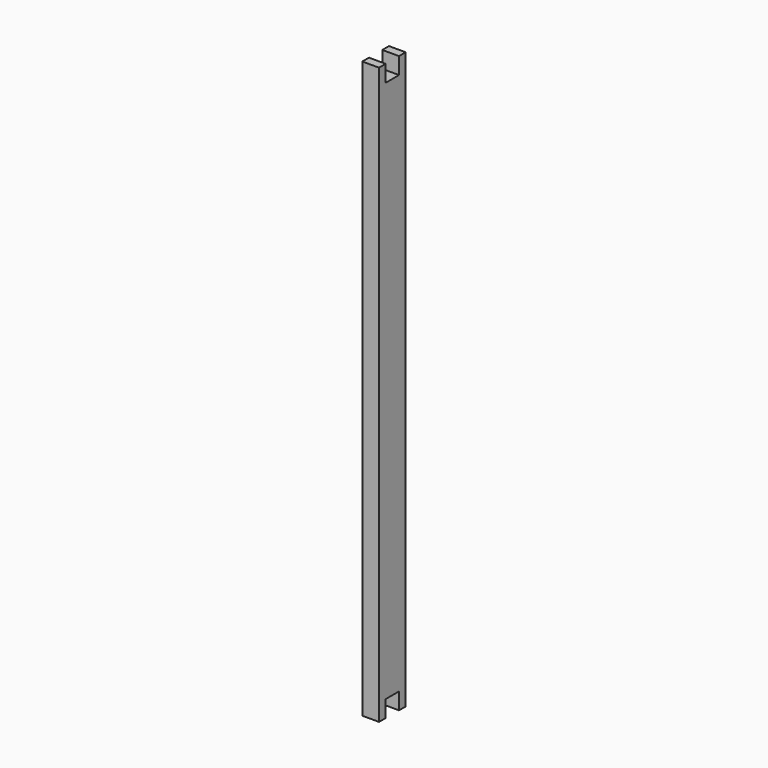
from build123d import *

# Parameters (mm, degrees)
F0_W     = 20
F0_H     = 40
F1_DEPTH = 690
F3_D     = 5
F3_DEPTH = 20
F3_TIP   = 1.5021515476
F4_W     = 20
F4_H     = 20
F5_DEPTH = 66.8
F6_W     = 20
F6_H     = 20
F7_DEPTH = 25


with BuildPart() as f1:
    # F0 (on Top) → F1 (new body)
    with BuildSketch(Plane.XY):
        Rectangle(F0_W, F0_H)
    extrude(amount=F1_DEPTH)

    # F3
    with Locations(Plane(origin=(0, 20, 0), x_dir=(-1, 0, 0), z_dir=(0, 1, 0))):
        with Locations((0, 570), (0, 420), (0, 270), (0, 120)):
            Hole(F3_D / 2, depth=F3_DEPTH)
            with Locations((0, 0, -(F3_DEPTH + F3_TIP / 2))):  # 118° drill point
                Cone(0, F3_D / 2, F3_TIP, mode=Mode.SUBTRACT)

    # F4 (on face) → F5 (cut)
    with BuildSketch(Plane.YZ.offset(10)):
        with Locations((0, 680)):
            Rectangle(F4_W, F4_H)
    extrude(amount=-F5_DEPTH, mode=Mode.SUBTRACT)

    # F6 (on face) → F7 (cut)
    with BuildSketch(Plane.YZ.offset(10)):
        with Locations((0, 10)):
            Rectangle(F6_W, F6_H)
    extrude(amount=-F7_DEPTH, mode=Mode.SUBTRACT)


with BuildPart() as f8_1:
    # F8: copy of F1
    add(f1.part)


solid = f1.part
